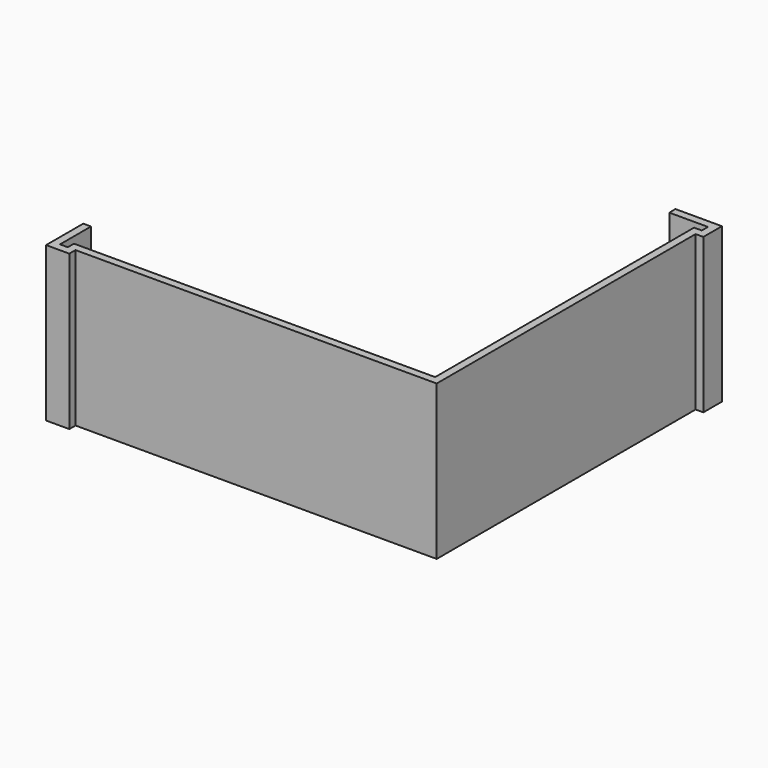
from build123d import *

# Parameters (mm, degrees)
F0_W     = 101.3
F0_H     = 91.6
F1_DEPTH = 39.9
F3_DEPTH = 44.9
F4_W     = 91.3
F4_H     = 81.6
F5_DEPTH = 25
F7_DEPTH = 40


with BuildPart() as f1:
    # F0 (on Top) → F1 (new body)
    with BuildSketch(Plane.XY):
        Rectangle(F0_W, F0_H)
    extrude(amount=F1_DEPTH)

    # F2 (on face) → F3 (cut)
    with BuildSketch(Plane.XY.offset(39.9)):
        Polygon((38.65, 45.8), (-50.65, 45.8), (-50.65, -33.8), (-48.65, -33.8), (-48.65, -43.8), (-46.65, -43.8), (-46.65, -41.8), (46.65, -41.8), (46.65, 41.8), (48.65, 41.8), (48.65, 43.8), (38.65, 43.8), align=None)
    extrude(amount=-F3_DEPTH, mode=Mode.SUBTRACT)

    # F4 (on face) → F5 (cut)
    with BuildSketch(Plane(origin=(0, 0, 0), x_dir=(1, 0, 0), z_dir=(0, 0, -1))):
        Rectangle(F4_W, F4_H)
    extrude(amount=-F5_DEPTH, mode=Mode.SUBTRACT)

    # F6 (on face) → F7 (cut)
    with BuildSketch(Plane.XY.offset(39.9)):
        Polygon((-44.65, -45.8), (50.65, -45.8), (50.65, 39.8), (48.65, 39.8), (48.65, -43.8), (-44.65, -43.8), align=None)
    extrude(amount=-F7_DEPTH, mode=Mode.SUBTRACT)


solid = f1.part
